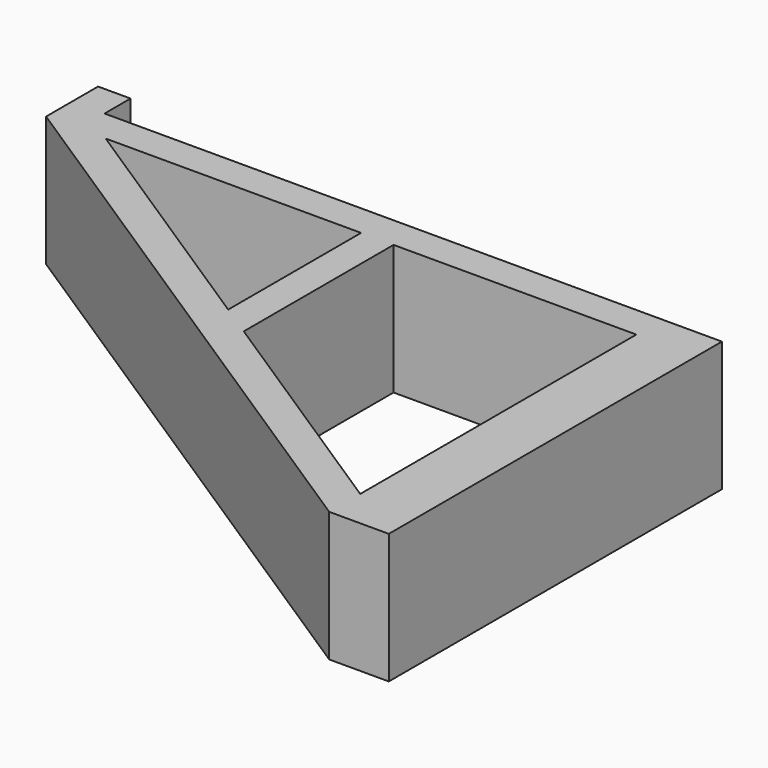
from build123d import *

# Parameters (mm, degrees)
F1_DEPTH = 20


with BuildPart() as f1:
    # F0 (on Top) → F1 (new body)
    with BuildSketch(Plane.XY):
        Polygon((23.470087, -5), (23.470087, 0), (-71.529913, 0), (-71.529913, 5), (-76.529913, 5), (-76.529913, 0), (-76.529913, -5), (-67.359267, -5), (-28.059433, -5), (-23.059433, -5), (14.299441, -5), align=None)
        Polygon((23.470087, -64.074456), (23.470087, -5), (14.299441, -5), (14.299441, -58.109964), align=None)
        Polygon((14.299441, -64.074456), (23.470087, -64.074456), (14.299441, -58.109964), align=None)
        Polygon((14.299441, -64.074456), (14.299441, -58.109964), (-23.059433, -33.812146), (-28.059433, -30.560198), (-67.359267, -5), (-76.529913, -5), align=None)
        Polygon((-23.059433, -33.812146), (-23.059433, -5), (-28.059433, -5), (-28.059433, -30.560198), align=None)
    extrude(amount=F1_DEPTH)


solid = f1.part
